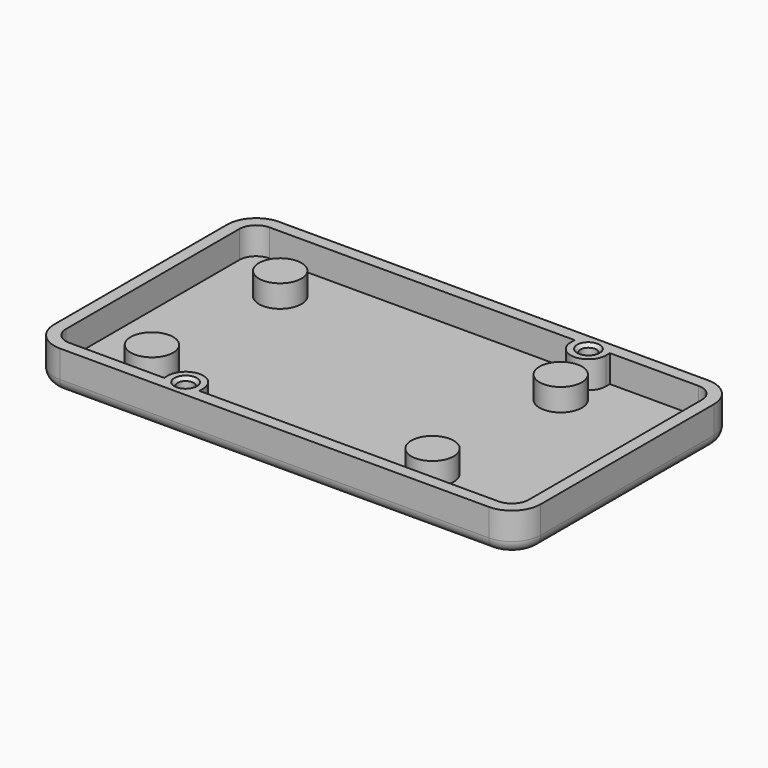
from build123d import *

# Parameters (mm, degrees)
PAD_DEPTH         = 3.4
THICKNESS_T       = 1.5
CYLINDER_W        = 2.2
CYLINDER_H        = 3.4
CYLINDER_ANGLE    = 180
BOX004_W          = 4.4
BOX004_H          = 0.6
BOX004_DEPTH      = 3.4
CYLINDER002_R     = 1
CYLINDER002_DEPTH = 3.9
CHAMFER_SIZE      = 0.4
CYLINDER003_W     = 2.2
CYLINDER003_H     = 3.4
CYLINDER003_ANGLE = 180
BOX006_W          = 4.4
BOX006_H          = 0.6
BOX006_DEPTH      = 3.4
CYLINDER004_R     = 1
CYLINDER004_DEPTH = 3.9
CHAMFER001_SIZE   = 0.4
SKETCH004_R       = 2.65
PAD002_DEPTH      = 2.8
SKETCH005_R       = 1.35
POCKET001_DEPTH   = 3.5


with BuildPart() as part:
    # Sketch → Pad (new body)
    with BuildSketch(Plane.XY):
        with BuildLine():
            Line((2, 31.1), (55.5, 31.1))
            ThreePointArc((57.6, 29), (56.984924, 30.484924), (55.5, 31.1))
            Line((57.6, 29), (57.6, 2))
            ThreePointArc((55.5, -0.1), (56.984924, 0.515076), (57.6, 2))
            Line((55.5, -0.1), (2, -0.1))
            ThreePointArc((-0.1, 2), (0.515076, 0.515076), (2, -0.1))
            Line((-0.1, 2), (-0.1, 29))
            ThreePointArc((2, 31.1), (0.515076, 30.484924), (-0.1, 29))
        make_face()
    extrude(amount=-PAD_DEPTH)

    # Thickness
    thickness_openings = [part.faces().sort_by_distance(p)[0] for p in [
        (28.75, 15.5, 0),
    ]]
    offset(amount=THICKNESS_T, openings=thickness_openings)

    # Cylinder → Cylinder (revolve)
    with BuildSketch(Plane(origin=(16, 0.5, -3.4), x_dir=(1, 0, 0), z_dir=(0, -1, 0))):
        with Locations((1.1, 1.7)):
            Rectangle(CYLINDER_W, CYLINDER_H)
    revolve(axis=Axis((16, 0.5, -3.4), (0, 0, 1)), revolution_arc=CYLINDER_ANGLE)

    # Box004 → Box004 (join)
    with BuildSketch(Plane(origin=(13.8, -0.1, -3.4), x_dir=(1, 0, 0), z_dir=(0, 0, 1))):
        with Locations((2.2, 0.3)):
            Rectangle(BOX004_W, BOX004_H)
    extrude(amount=BOX004_DEPTH)

    # Cylinder002 → Cylinder002 (cut)
    with BuildSketch(Plane(origin=(16, 0.5, -3.9), x_dir=(1, 0, 0), z_dir=(0, 0, 1))):
        Circle(CYLINDER002_R)
    extrude(amount=CYLINDER002_DEPTH, mode=Mode.SUBTRACT)

    # Chamfer
    chamfer_edges = [part.edges().sort_by_distance(p)[0] for p in [
        (16, 1.5, 0),
        (16, -0.5, 0),
        (15.051317, 0.183772, 0),
        (16.948683, 0.183772, 0),
    ]]
    chamfer(chamfer_edges, length=CHAMFER_SIZE)

    # Cylinder003 → Cylinder003 (revolve)
    with BuildSketch(Plane(origin=(42.25, 30.5, -3.4), x_dir=(-1, 0, 0), z_dir=(0, 1, 0))):
        with Locations((1.1, 1.7)):
            Rectangle(CYLINDER003_W, CYLINDER003_H)
    revolve(axis=Axis((42.25, 30.5, -3.4), (0, 0, 1)), revolution_arc=CYLINDER003_ANGLE)

    # Box006 → Box006 (join)
    with BuildSketch(Plane(origin=(40.05, 30.5, -3.4), x_dir=(1, 0, 0), z_dir=(0, 0, 1))):
        with Locations((2.2, 0.3)):
            Rectangle(BOX006_W, BOX006_H)
    extrude(amount=BOX006_DEPTH)

    # Cylinder004 → Cylinder004 (cut)
    with BuildSketch(Plane(origin=(42.25, 30.5, -3.9), x_dir=(1, 0, 0), z_dir=(0, 0, 1))):
        Circle(CYLINDER004_R)
    extrude(amount=CYLINDER004_DEPTH, mode=Mode.SUBTRACT)

    # Chamfer001
    chamfer001_edges = [part.edges().sort_by_distance(p)[0] for p in [
        (42.25, 31.5, 0),
        (43.198683, 30.816228, 0),
        (42.25, 29.5, 0),
        (41.301317, 30.816228, 0),
    ]]
    chamfer(chamfer001_edges, length=CHAMFER001_SIZE)

    # Sketch004 → Pad002 (join)
    with BuildSketch(Plane.XY.offset(-3.4)):
        with Locations((7.8, 5.5)):
            Circle(SKETCH004_R)
        with Locations((42.8, 5.5)):
            Circle(SKETCH004_R)
        with Locations((7.8, 25.5)):
            Circle(SKETCH004_R)
        with Locations((42.8, 25.5)):
            Circle(SKETCH004_R)
    extrude(amount=PAD002_DEPTH)

    # Sketch005 → Pocket001 (cut)
    with BuildSketch(Plane.XY.offset(-4.9)):
        with Locations((7.8, 5.5)):
            Circle(SKETCH005_R)
        with Locations((42.8, 5.5)):
            Circle(SKETCH005_R)
        with Locations((7.8, 25.5)):
            Circle(SKETCH005_R)
        with Locations((42.8, 25.5)):
            Circle(SKETCH005_R)
    extrude(amount=POCKET001_DEPTH, mode=Mode.SUBTRACT)


solid = part.part
